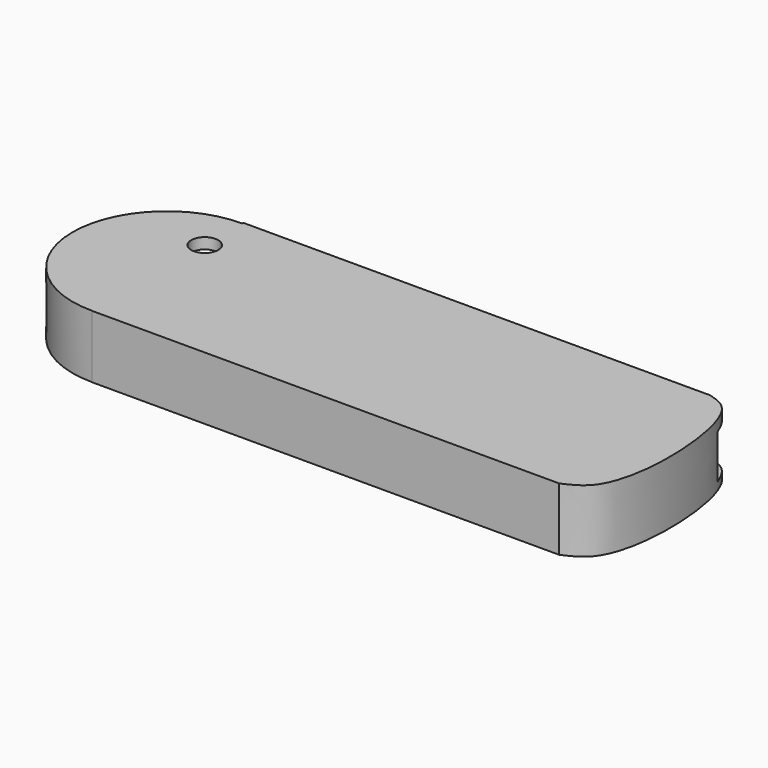
from build123d import *

# Parameters (mm, degrees)
F0_R     = 3.81
F1_DEPTH = 17.78
F3_W     = 162.56
F3_H     = 12.484183514
F4_DEPTH = 44.958


with BuildPart() as f1:
    # F0 (on Top) → F1 (new body)
    with BuildSketch(Plane.XY):
        with BuildLine():
            Line((80.0745860803, 27.0428936929), (-52.0054139197, 27.0428936929))
            Line((-52.0054139197, 27.0428936929), (-52.0035735621, 26.6656183776))
            ThreePointArc((-52.0035735621, 26.6656183776), (-78.6707151108, -0.1300739458), (-51.7434288537, -26.6643314312))
            Line((-51.7434288537, -26.6643314312), (-51.7432019114, -26.7108548433))
            Line((-51.7432019114, -26.7108548433), (80.3367980886, -26.7108548433))
            add(Edge.make_bspline(
                [(80.0745860803, 27.0428936929), (82.2772399927, 26.4006125871), (88.5164902576, 24.5812833967), (93.0216453978, -0.1630759679), (89.4965634175, -22.6096790396), (82.8757435014, -25.5740722817), (80.3367980886, -26.7108548433)],
                knots=[0, 0, 0, 0, 0.1758795086, 0.4981973176, 0.8075692082, 1, 1, 1, 1], degree=3))
        make_face()
        with Locations((-52.0054139197, 13.4058566764)):
            Circle(F0_R, mode=Mode.SUBTRACT)
    extrude(amount=F1_DEPTH)

    # F3 (on offset) → F4 (cut)
    with BuildSketch(Plane.XZ.offset(-27.178)):
        with Locations((7.1617029607, 8.4615359083)):
            Rectangle(F3_W, F3_H)
    extrude(amount=F4_DEPTH, mode=Mode.SUBTRACT)


solid = f1.part
